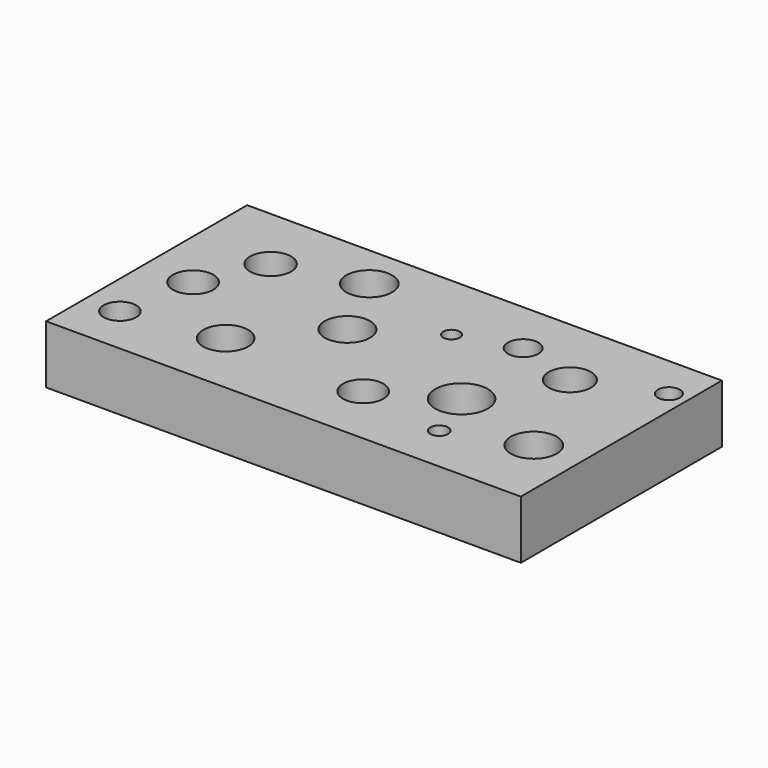
from build123d import *

# Parameters (mm, degrees)
F0_W     = 87.97396
F0_H     = 46.579894
F1_DEPTH = 10.8
F2_R     = 4.263815
F2_R_2   = 4.198962
F2_R_3   = 3.750182
F2_R_4   = 3.800158
F2_R_5   = 4.17849
F2_R_6   = 3.014974
F2_R_7   = 4.88964
F2_R_8   = 3.924494
F2_R_9   = 2.037287
F2_R_10  = 2.82101
F2_R_11  = 1.527268
F2_R_12  = 1.656553
F2_R_13  = 4.259792
F3_DEPTH = 25


with BuildPart() as f1:
    # F0 (on Top) → F1 (new body)
    with BuildSketch(Plane.XY):
        with Locations((43.98698, 23.289947)):
            Rectangle(F0_W, F0_H)
    extrude(amount=-F1_DEPTH)

    # F2 (on face) → F3 (cut)
    with BuildSketch(Plane.XY):
        with Locations((29.170312, 38.384426)):
            Circle(F2_R)
        with Locations((35.652604, 25.234634)):
            Circle(F2_R_2)
        with Locations((8.982603, 22.826925)):
            Circle(F2_R_3)
        with Locations((14.168437, 34.309842)):
            Circle(F2_R_4)
        with Locations((23.614062, 12.084842)):
            Circle(F2_R_5)
        with Locations((6.389686, 9.121509)):
            Circle(F2_R_6)
        with Locations((49.543228, 11.529217)):
            Circle(F2_R_3)
        with Locations((62.137399, 18.567134)):
            Circle(F2_R_7)
        with Locations((70.656978, 33.013385)):
            Circle(F2_R_8)
        with Locations((84.547602, 38.569633)):
            Circle(F2_R_9)
        with Locations((59.174061, 36.532342)):
            Circle(F2_R_10)
        with Locations((48.431981, 33.383802)):
            Circle(F2_R_11)
        with Locations((65.841563, 8.751092)):
            Circle(F2_R_12)
        with Locations((79.361774, 13.751717)):
            Circle(F2_R_13)
    extrude(amount=-F3_DEPTH, mode=Mode.SUBTRACT)


solid = f1.part
